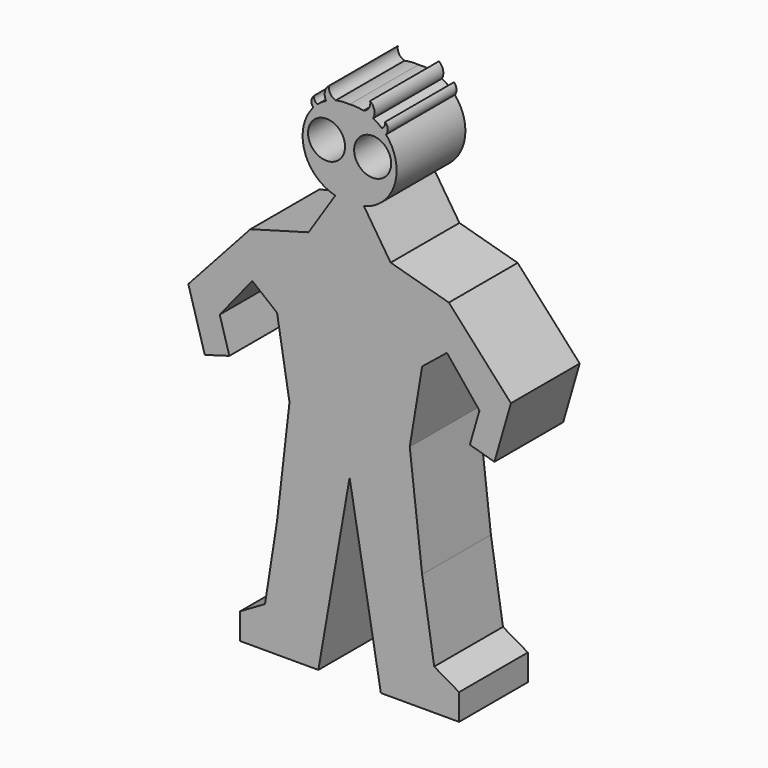
from build123d import *

# Parameters (mm, degrees)
F1_DEPTH      = 19.05
F2_R          = 8.200531
F3_DEPTH      = 38.1
F3_DEPTH_BACK = 25.4
F5_DEPTH      = 38.1


with BuildPart() as f1:
    # F0 (on Front) → F1 (new body, symmetric)
    with BuildSketch(Plane.XZ):
        with BuildLine():
            Line((-32.141831, 33.15654), (-26.644221, 0))
            Line((-26.644221, 0), (-32.141831, -48.038937))
            Line((-32.141831, -48.038937), (-37.479226, -82.203552))
            Line((-37.479226, -82.203552), (-48.503112, -88.604517))
            Line((-48.503112, -88.604517), (-48.503112, -100.208476))
            Line((-48.503112, -100.208476), (-13.84278, -100.208476))
            Line((-13.84278, -100.208476), (0, -20.61474))
            Line((0, -20.61474), (0, 124.924347))
            ThreePointArc((0, 124.924347), (-20.562864, 109.037436), (-6.345349, 87.28686))
            Line((-6.345349, 87.28686), (-18.186359, 69.102459))
            Line((-18.186359, 69.102459), (-43.982837, 61.913271))
            Line((-43.982837, 61.913271), (-71.473219, 31.58654))
            Line((-71.473219, 31.58654), (-64.171686, 6.32793))
            Line((-64.171686, 6.32793), (-53.286485, 9.474526))
            Line((-53.286485, 9.474526), (-57.54343, 24.200819))
            Line((-57.54343, 24.200819), (-43.137055, 42.037293))
            Line((-43.137055, 42.037293), (-32.141831, 33.15654))
        make_face()
        with BuildLine():
            Line((0, 124.924347), (0, -20.61474))
            Line((0, -20.61474), (13.84278, -100.208476))
            Line((13.84278, -100.208476), (48.503112, -100.208476))
            Line((48.503112, -100.208476), (48.503112, -88.604517))
            Line((48.503112, -88.604517), (37.479226, -82.203552))
            Line((37.479226, -82.203552), (32.141831, -48.038937))
            Line((32.141831, -48.038937), (26.644221, 0))
            Line((26.644221, 0), (32.141831, 33.15654))
            Line((32.141831, 33.15654), (43.137055, 42.037293))
            Line((43.137055, 42.037293), (57.54343, 24.200819))
            Line((57.54343, 24.200819), (53.286485, 9.474526))
            Line((53.286485, 9.474526), (64.171686, 6.32793))
            Line((64.171686, 6.32793), (71.473219, 31.58654))
            Line((71.473219, 31.58654), (43.982837, 61.913271))
            Line((43.982837, 61.913271), (18.186359, 69.102459))
            Line((18.186359, 69.102459), (6.345349, 87.28686))
            ThreePointArc((6.345349, 87.28686), (20.562864, 109.037436), (0, 124.924347))
        make_face()
    extrude(amount=F1_DEPTH, both=True)

    # F2 (on face) → F3 (cut, two sides)
    with BuildSketch(Plane.XZ.offset(19.05)) as f3_sk:
        with Locations((-10.217502, 107.796535)):
            Circle(F2_R)
        with Locations((10.217502, 107.796535)):
            Circle(F2_R)
    extrude(amount=-F3_DEPTH, mode=Mode.SUBTRACT)
    extrude(f3_sk.sketch, amount=-F3_DEPTH_BACK, mode=Mode.SUBTRACT)

    # F4 (on face) → F5 (join, through all)
    with BuildSketch(Plane(origin=(0, 19.05, 0), x_dir=(-1, 0, 0), z_dir=(0, 1, 0))):
        with BuildLine():
            ThreePointArc((-6.158323, 124.468817), (-8.54694, 126.271077), (-9.095944, 129.212543))
            ThreePointArc((-9.095944, 129.212543), (-10.942716, 126.29527), (-10.440769, 122.879263))
            ThreePointArc((-10.440769, 122.879263), (-8.347127, 123.802228), (-6.158323, 124.468817))
        make_face()
        with BuildLine():
            ThreePointArc((-16.136752, 118.410561), (-15.235, 119.378746), (-14.268527, 120.282334))
            ThreePointArc((-14.268527, 120.282334), (-15.496071, 121.489871), (-15.748994, 123.193115))
            ThreePointArc((-15.748994, 123.193115), (-16.894778, 120.879016), (-16.136752, 118.410561))
        make_face()
        with BuildLine():
            ThreePointArc((9.095944, 129.212543), (8.54694, 126.271077), (6.158323, 124.468817))
            ThreePointArc((6.158323, 124.468817), (8.347127, 123.802228), (10.440769, 122.879263))
            ThreePointArc((10.440769, 122.879263), (10.942716, 126.29527), (9.095944, 129.212543))
        make_face()
        with BuildLine():
            ThreePointArc((15.748994, 123.193115), (15.496071, 121.489871), (14.268527, 120.282334))
            ThreePointArc((14.268527, 120.282334), (15.235, 119.378746), (16.136752, 118.410561))
            ThreePointArc((16.136752, 118.410561), (16.894778, 120.879016), (15.748994, 123.193115))
        make_face()
    extrude(amount=-F5_DEPTH)


solid = f1.part
